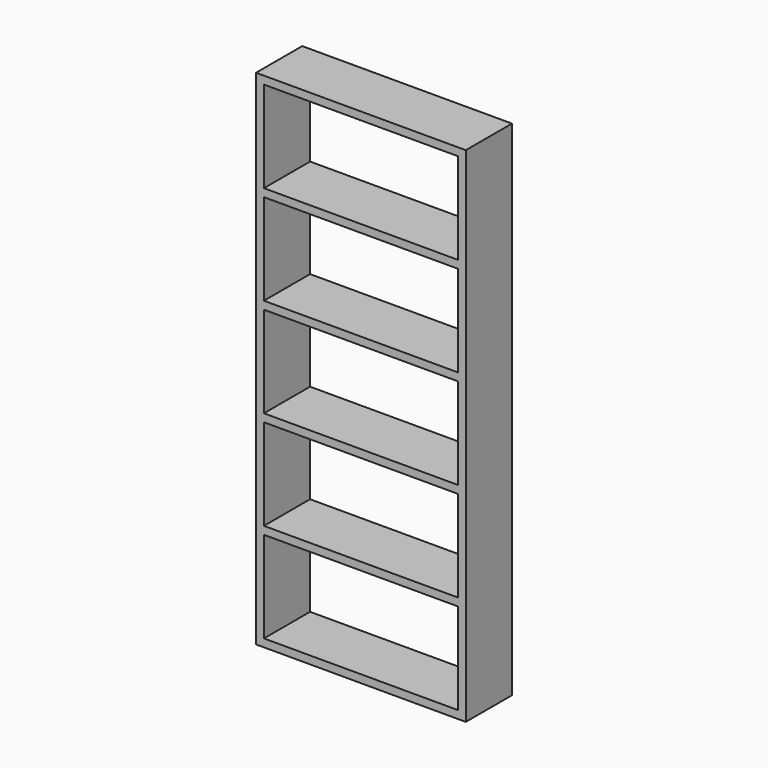
from build123d import *

# Parameters (mm, degrees)
F0_W     = 508
F0_H     = 1219.2
F0_W_2   = 469.9
F0_H_2   = 1181.1
F1_DEPTH = 139.7
F2_W     = 469.9
F2_H     = 19.05
F3_DEPTH = 139.7


with BuildPart() as f1:
    # F0 (on Front) → F1 (new body)
    with BuildSketch(Plane.XZ):
        Rectangle(F0_W, F0_H)
        Rectangle(F0_W_2, F0_H_2, mode=Mode.SUBTRACT)
    extrude(amount=F1_DEPTH)

    # F2 (on Front) → F3 (join)
    with BuildSketch(Plane.XZ):
        with Locations((0, 360.045)):
            Rectangle(F2_W, F2_H)
        with Locations((0, -120.015)):
            Rectangle(F2_W, F2_H)
        with Locations((0, 120.015)):
            Rectangle(F2_W, F2_H)
        with Locations((0, -360.045)):
            Rectangle(F2_W, F2_H)
    extrude(amount=F3_DEPTH)


solid = f1.part
